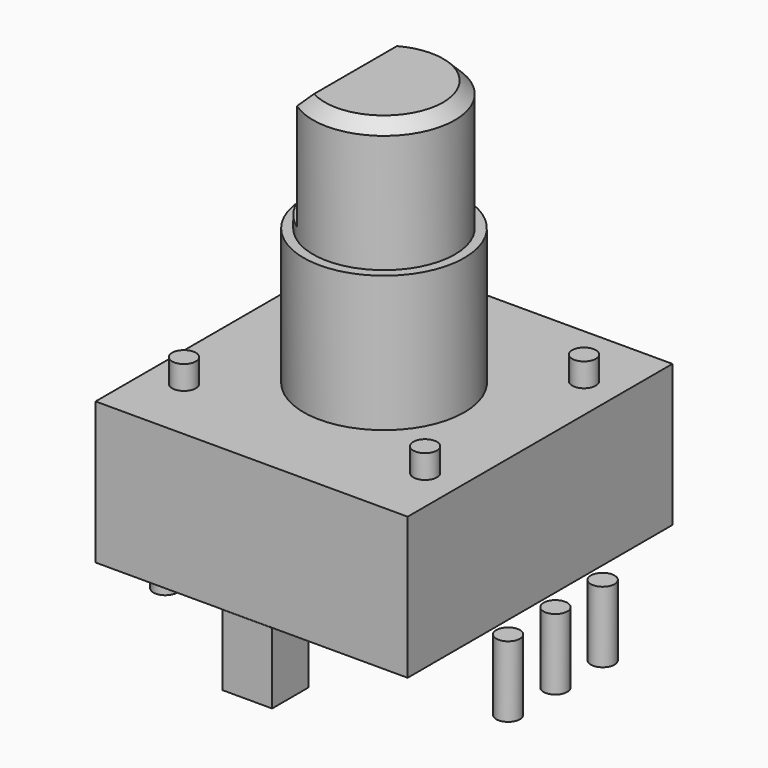
from build123d import *

# Parameters (mm, degrees)
SKETCH005_R   = 0.5
SKETCH005_W   = 2.1
SKETCH005_H   = 1.916411
SKETCH005_W_2 = 2.05481
SKETCH005_H_2 = 2.338926
PAD004_DEPTH  = 3
SKETCH_W      = 13.2
SKETCH_H      = 14
PAD_DEPTH     = 6
SKETCH001_R   = 3.4
PAD001_DEPTH  = 5.75
SKETCH002_R   = 3
PAD002_DEPTH  = 5.5
POCKET_DEPTH  = 5
CHAMFER_SIZE  = 0.5
SKETCH004_R   = 0.5
PAD003_DEPTH  = 1


with BuildPart() as pad004:
    # Sketch005 → Pad004 (new body)
    with BuildSketch(Plane(origin=(-0.65, 4.5, 0), x_dir=(1, 0, 0), z_dir=(0, 0, 1))):
        Circle(SKETCH005_R)
        with Locations((14.5, 0)):
            Circle(SKETCH005_R)
        with Locations((14.5, 5)):
            Circle(SKETCH005_R)
        with Locations((0, 5)):
            Circle(SKETCH005_R)
        with Locations((14.5, 2.5)):
            Circle(SKETCH005_R)
        with Locations((7.07597, -3.552366)):
            Rectangle(SKETCH005_W, SKETCH005_H)
        with Locations((7.087742, 7.519965)):
            Rectangle(SKETCH005_W_2, SKETCH005_H_2)
    extrude(amount=-PAD004_DEPTH)


with BuildPart() as fusion:
    # Sketch → Pad (new body)
    with BuildSketch(Plane.XY):
        with Locations((6.6, 7)):
            Rectangle(SKETCH_W, SKETCH_H)
    extrude(amount=PAD_DEPTH)

    # Sketch001 → Pad001 (new body)
    with BuildSketch(Plane.XY.offset(6)):
        with Locations((6.6, 7)):
            Circle(SKETCH001_R)
    extrude(amount=PAD001_DEPTH)

    # Sketch002 → Pad002 (new body)
    with BuildSketch(Plane.XY.offset(11.75)):
        with Locations((6.6, 7)):
            Circle(SKETCH002_R)
    extrude(amount=PAD002_DEPTH)

    # Sketch003 → Pocket (cut)
    with BuildSketch(Plane.XY.offset(17.25)):
        with BuildLine():
            Line((4.894401, 9.467982), (4.894401, 4.532018))
            ThreePointArc((4.894401, 9.467982), (3.6, 7), (4.894401, 4.532018))
        make_face()
    extrude(amount=-POCKET_DEPTH, mode=Mode.SUBTRACT)

    # Chamfer
    chamfer_edges = [fusion.edges().sort_by_distance(p)[0] for p in [
        (7.993414, 9.656765, 17.25),
        (7.993414, 4.343235, 17.25),
        (4.894401, 7, 17.25),
    ]]
    chamfer(chamfer_edges, length=CHAMFER_SIZE)

    # Sketch004 → Pad003 (new body)
    with BuildSketch(Plane.XY.offset(6)):
        with Locations((1.5, 11.2)):
            Circle(SKETCH004_R)
        with Locations((1.5, 2.8)):
            Circle(SKETCH004_R)
        with Locations((11.7, 11.2)):
            Circle(SKETCH004_R)
        with Locations((11.7, 2.8)):
            Circle(SKETCH004_R)
    extrude(amount=PAD003_DEPTH)

    # Fusion: union Pad004
    add(pad004.part)


solid = fusion.part
